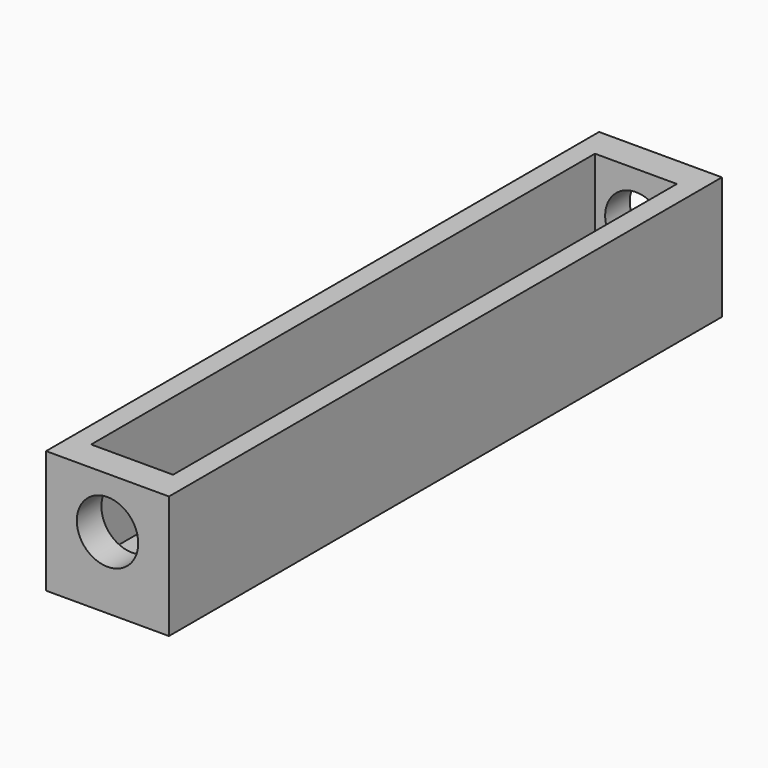
from build123d import *

# Parameters (mm, degrees)
F0_W     = 24
F0_H     = 24
F1_DEPTH = 135
F2_W     = 16
F2_H     = 123
F3_DEPTH = 20
F4_R     = 6
F5_DEPTH = 135.001
F6_R     = 4
F7_DEPTH = 25


with BuildPart() as f1:
    # F0 (on Front) → F1 (new body)
    with BuildSketch(Plane.XZ):
        with Locations((12, 12)):
            Rectangle(F0_W, F0_H)
    extrude(amount=F1_DEPTH)

    # F2 (on face) → F3 (cut)
    with BuildSketch(Plane.XY.offset(24)):
        with Locations((12, -67.5)):
            Rectangle(F2_W, F2_H)
    extrude(amount=-F3_DEPTH, mode=Mode.SUBTRACT)

    # F4 (on face) → F5 (cut, through all)
    with BuildSketch(Plane.XZ.offset(135)):
        with Locations((12, 14)):
            Circle(F4_R)
    extrude(amount=-F5_DEPTH, mode=Mode.SUBTRACT)

    # F6 (on face) → F7 (cut)
    with BuildSketch(Plane.XY.offset(4)):
        with Locations((12, -26)):
            Circle(F6_R)
        with Locations((12, -109)):
            Circle(F6_R)
    extrude(amount=-F7_DEPTH, mode=Mode.SUBTRACT)


solid = f1.part
